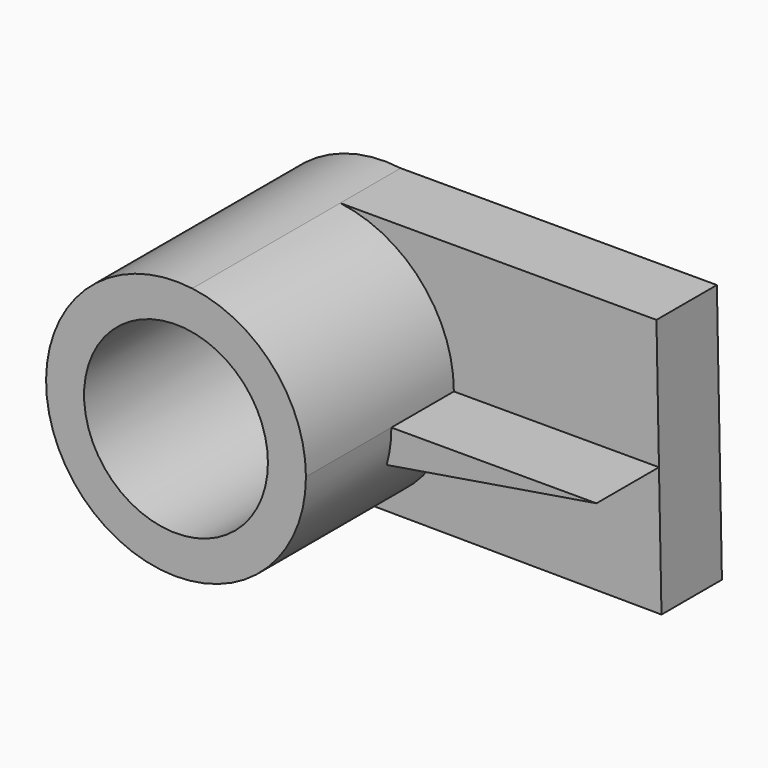
from build123d import *

# Parameters (mm, degrees)
F0_R     = 8.964433
F1_DEPTH = 25.4
F2_DEPTH = 7.366
F4_DEPTH = 7.62


with BuildPart() as f1:
    # F0 (on Front) → F1 (new body)
    with BuildSketch(Plane.XZ):
        with BuildLine():
            ThreePointArc((-9.938305, -12.372125), (-2.792256, -7.934724), (0, 0))
            ThreePointArc((0, 0), (-3.165972, 8.378736), (-11.081682, 12.570171))
            ThreePointArc((-11.081682, 12.570171), (-25.326984, -0.580201), (-9.938305, -12.372125))
        make_face()
        with Locations((-12.670138, 0)):
            Circle(F0_R, mode=Mode.SUBTRACT)
    extrude(amount=F1_DEPTH)

    # F0 (on Front) → F2 (join)
    with BuildSketch(Plane.XZ):
        with BuildLine():
            ThreePointArc((-11.081682, 12.570171), (-3.165972, 8.378736), (0, 0))
            ThreePointArc((0, 0), (-2.792256, -7.934724), (-9.938305, -12.372125))
            Line((-9.938305, -12.372125), (20.246768, -12.57116))
            Line((20.246768, -12.57116), (19.755474, 12.570171))
            Line((19.755474, 12.570171), (-11.081682, 12.570171))
        make_face()
    extrude(amount=F2_DEPTH)

    # F3 (on face) → F4 (join)
    with BuildSketch(Plane.XZ.offset(7.366)):
        with BuildLine():
            Line((-0.452979, -3.357592), (20.001121, -0.000494))
            Line((20.001121, -0.000494), (0, 0))
            ThreePointArc((0, 0), (-0.113755, -1.694005), (-0.452979, -3.357592))
        make_face()
    extrude(amount=F4_DEPTH)


solid = f1.part
